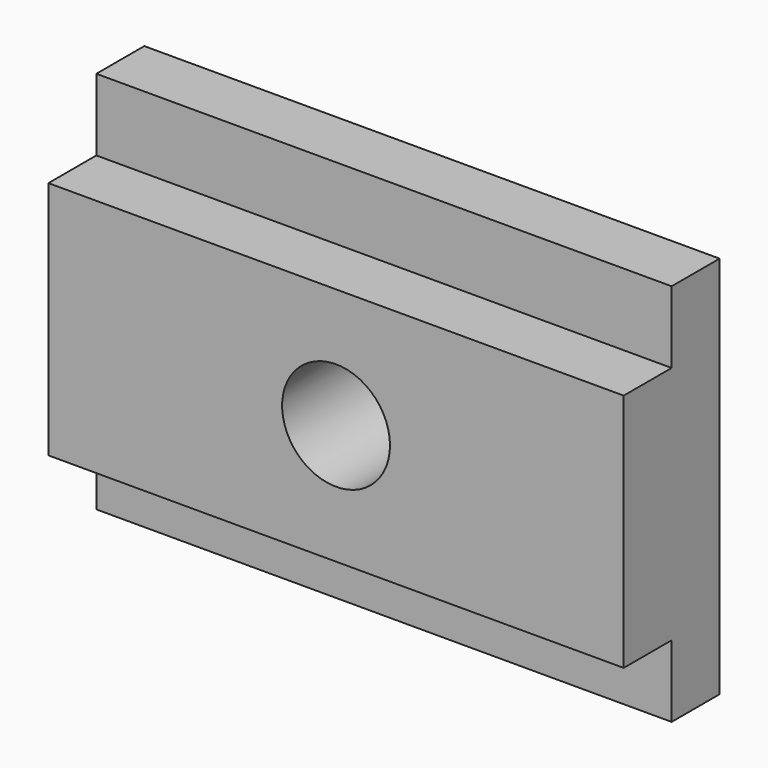
from build123d import *

# Parameters (mm, degrees)
F0_W     = 152.4
F0_H     = 15.875
F1_DEPTH = 101.6
F2_W     = 152.4
F2_H     = 63.5
F3_DEPTH = 31.75
F4_D     = 28.575


with BuildPart() as f1:
    # F0 (on Top) → F1 (new body)
    with BuildSketch(Plane.XY):
        Rectangle(F0_W, F0_H)
    extrude(amount=F1_DEPTH)

    # F2 (on face) → F3 (join)
    with BuildSketch(Plane(origin=(0, 7.9375, 0), x_dir=(-1, 0, 0), z_dir=(0, 1, 0))):
        with Locations((0, 50.8)):
            Rectangle(F2_W, F2_H)
    extrude(amount=-F3_DEPTH)

    # F4 (through all)
    with Locations(Plane(origin=(0, 7.9375, 0), x_dir=(-1, 0, 0), z_dir=(0, 1, 0))):
        with Locations((0, 50.8)):
            Hole(F4_D / 2)


solid = f1.part
